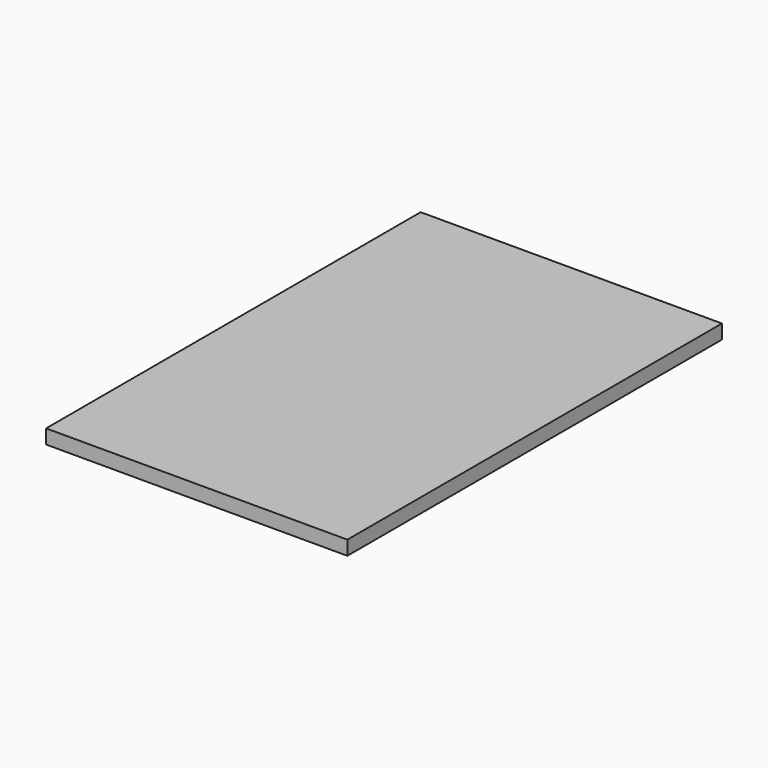
from build123d import *

# Parameters (mm, degrees)
SKETCH_W      = 740
SKETCH_H      = 1150
EXTRUDE_DEPTH = 35


with BuildPart() as part:
    # Sketch → Extrude (new body)
    with BuildSketch(Plane.XY):
        with Locations((370, 575)):
            Rectangle(SKETCH_W, SKETCH_H)
    extrude(amount=EXTRUDE_DEPTH)


solid = part.part
